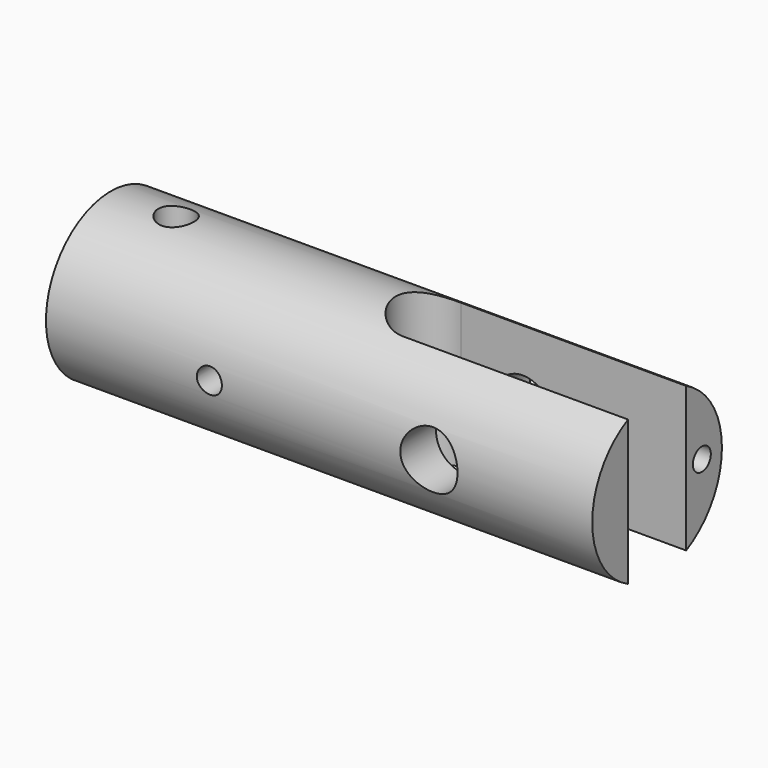
from build123d import *

# Parameters (mm, degrees)
F0_R      = 7.874
F1_DEPTH  = 53.086
F3_DEPTH  = 12.7
F6_D      = 3.4544
F6_DEPTH  = 7.71525
F6_START  = 4.2557702
F6_TIP    = 1.0378064612
F8_D      = 7.9375
F8_DEPTH  = 22.225
F8_TIP    = 2.3846655818
F9_R      = 2.7813
F10_DEPTH = 12.7
F13_D     = 2.4384
F15_D     = 2.1844
F15_DEPTH = 7.874
F15_TIP   = 0.6562599681
F16_D     = 1.778
F16_DEPTH = 10.16
F16_START = 7.9960949
F16_TIP   = 0.5341650903


with BuildPart() as f1:
    # F0 (on Right) → F1 (new body)
    with BuildSketch(Plane.YZ):
        Circle(F0_R)
    extrude(amount=F1_DEPTH)

    # F2 (on Top) → F3 (cut, symmetric)
    with BuildSketch(Plane.XY):
        with BuildLine():
            ThreePointArc((31.2166, 3.5306), (27.686, 0), (31.2166, -3.5306))
            Line((31.2166, -3.5306), (67.7581354976, -3.5306))
            Line((67.7581354976, -3.5306), (67.7581354976, 3.5306))
            Line((67.7581354976, 3.5306), (31.2166, 3.5306))
        make_face()
    extrude(amount=F3_DEPTH, both=True, mode=Mode.SUBTRACT)

    # F6
    # its depths count from where the whole tool has entered the part; down to there all is cleared
    with Locations(Plane.XY.offset(11.938).offset(-F6_START)):
        with Locations((6.35, 0)):
            Hole(F6_D / 2, depth=F6_DEPTH)
            with Locations((0, 0, -(F6_DEPTH + F6_TIP / 2))):  # 118° drill point
                Cone(0, F6_D / 2, F6_TIP, mode=Mode.SUBTRACT)

    # F8
    with Locations(Plane(origin=(0, 0, 0), x_dir=(0, -1, 0), z_dir=(-1, 0, 0))):
        with Locations((0, 0)):
            Hole(F8_D / 2, depth=F8_DEPTH)
            with Locations((0, 0, -(F8_DEPTH + F8_TIP / 2))):  # 118° drill point
                Cone(0, F8_D / 2, F8_TIP, mode=Mode.SUBTRACT)

    # F9 (on Front) → F10 (cut, symmetric)
    with BuildSketch(Plane.XZ):
        with Locations((37.211, 0)):
            Circle(F9_R)
    extrude(amount=F10_DEPTH, both=True, mode=Mode.SUBTRACT)

    # F13 (through all)
    with Locations(Plane.XZ.offset(12.7)):
        with Locations((15.875, 0)):
            Hole(F13_D / 2)

    # F15
    with Locations(Plane.YZ.offset(53.086)):
        with Locations((5.4356, 0)):
            Hole(F15_D / 2, depth=F15_DEPTH)
            with Locations((0, 0, -(F15_DEPTH + F15_TIP / 2))):  # 118° drill point
                Cone(0, F15_D / 2, F15_TIP, mode=Mode.SUBTRACT)

    # F16
    # its depths count from where the whole tool has entered the part; down to there all is cleared
    with Locations(Plane.YZ.offset(53.086).offset(-F16_START)):
        with Locations((5.4356, 0)):
            Hole(F16_D / 2, depth=F16_DEPTH)
            with Locations((0, 0, -(F16_DEPTH + F16_TIP / 2))):  # 118° drill point
                Cone(0, F16_D / 2, F16_TIP, mode=Mode.SUBTRACT)


solid = f1.part
